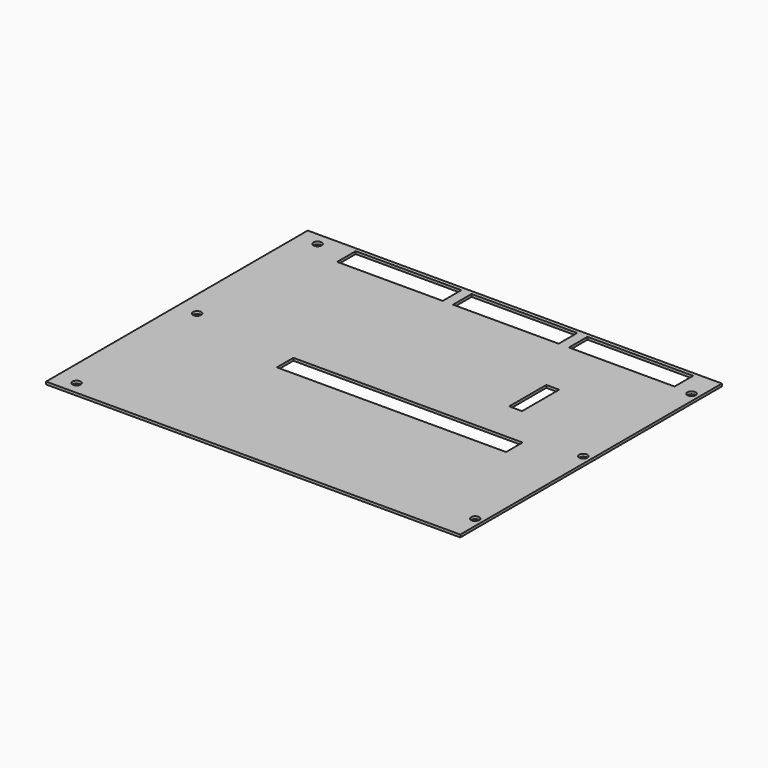
from build123d import *

# Parameters (mm, degrees)
F0_W     = 306
F0_H     = 127
F0_R     = 1.6
F0_W_2   = 89
F0_H_2   = 8
F0_W_3   = 11
F0_H_3   = 35
F0_W_4   = 54
F0_H_4   = 14
F0_W_5   = 32
F0_W_6   = 16.6
F0_H_5   = 17.1
F0_W_7   = 5
F0_H_6   = 18
F0_W_8   = 41
F0_H_7   = 9
F1_DEPTH = 1
F2_W     = 148.235004
F2_H     = 139.296211
F3_DEPTH = 12.5


with BuildPart() as f1:
    # F0 (on Top) → F1 (new body)
    with BuildSketch(Plane.XY):
        Rectangle(F0_W, F0_H)
        with Locations((-150, -52.5)):
            Circle(F0_R, mode=Mode.SUBTRACT)
        with Locations((0, -58.5)):
            Circle(F0_R, mode=Mode.SUBTRACT)
        with Locations((150, -52.5)):
            Circle(F0_R, mode=Mode.SUBTRACT)
        with Locations((85.5, -8.5)):
            Rectangle(F0_W_2, F0_H_2, mode=Mode.SUBTRACT)
        with Locations((-150, 0)):
            Circle(F0_R, mode=Mode.SUBTRACT)
        with Locations((-140, 25.5)):
            Rectangle(F0_W_3, F0_H_3, mode=Mode.SUBTRACT)
        with Locations((-150, 52.5)):
            Circle(F0_R, mode=Mode.SUBTRACT)
        with Locations((-119, 55)):
            Rectangle(F0_W_4, F0_H_4, mode=Mode.SUBTRACT)
        with Locations((-75, 55)):
            Rectangle(F0_W_5, F0_H_4, mode=Mode.SUBTRACT)
        with Locations((-19.5, 52.65)):
            Rectangle(F0_W_6, F0_H_5, mode=Mode.SUBTRACT)
        Circle(F0_R, mode=Mode.SUBTRACT)
        with Locations((150, 0)):
            Circle(F0_R, mode=Mode.SUBTRACT)
        with Locations((114.5, 20.5)):
            Rectangle(F0_W_7, F0_H_6, mode=Mode.SUBTRACT)
        with Locations((0, 58.5)):
            Circle(F0_R, mode=Mode.SUBTRACT)
        with Locations((32.5, 57.5)):
            Rectangle(F0_W_8, F0_H_7, mode=Mode.SUBTRACT)
        with Locations((77.5, 57.5)):
            Rectangle(F0_W_8, F0_H_7, mode=Mode.SUBTRACT)
        with Locations((150, 52.5)):
            Circle(F0_R, mode=Mode.SUBTRACT)
        with Locations((122.5, 57.5)):
            Rectangle(F0_W_8, F0_H_7, mode=Mode.SUBTRACT)
    extrude(amount=F1_DEPTH)

    # F2 (on Top) → F3 (cut, symmetric)
    with BuildSketch(Plane.XY):
        with Locations((-81.938947, 0.248301)):
            Rectangle(F2_W, F2_H)
    extrude(amount=F3_DEPTH, both=True, mode=Mode.SUBTRACT)


solid = f1.part
